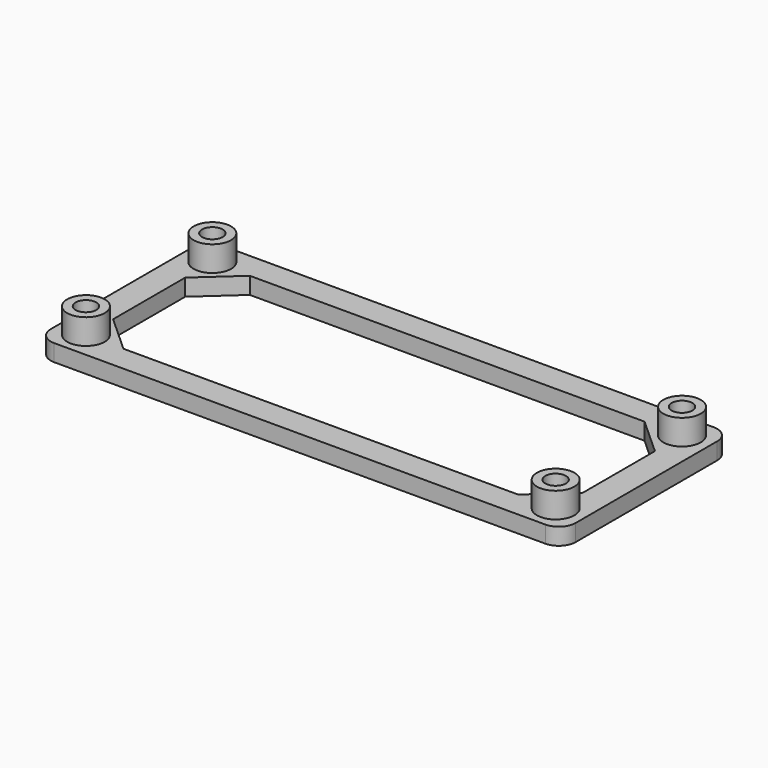
from build123d import *

# Parameters (mm, degrees)
F0_W     = 62.3
F0_H     = 25
F0_R     = 2.225
F0_R_2   = 1.225
F1_DEPTH = 2
F2_DEPTH = 5
F3_R     = 2


with BuildPart() as f1:
    # F0 (on Top) → F1 (new body)
    with BuildSketch(Plane.XY):
        Rectangle(F0_W, F0_H)
        with Locations((-27.875, -9.375)):
            Circle(F0_R, mode=Mode.SUBTRACT)
        with Locations((27.875, -9.375)):
            Circle(F0_R, mode=Mode.SUBTRACT)
        with Locations((-27.875, 9.375)):
            Circle(F0_R, mode=Mode.SUBTRACT)
        Polygon((-27.875, 5.350242297), (-23.4251319759, 9.375), (23.4251319759, 9.375), (27.875, 5.350242297), (27.875, -5.350242297), (23.4251319759, -9.375), (-23.4251319759, -9.375), (-27.875, -5.350242297), align=None, mode=Mode.SUBTRACT)
        with Locations((27.875, 9.375)):
            Circle(F0_R, mode=Mode.SUBTRACT)
        with Locations((-27.875, 9.375)):
            Circle(F0_R)
        with Locations((-27.875, 9.375)):
            Circle(F0_R_2, mode=Mode.SUBTRACT)
        with Locations((-27.875, -9.375)):
            Circle(F0_R)
        with Locations((-27.875, -9.375)):
            Circle(F0_R_2, mode=Mode.SUBTRACT)
        with Locations((27.875, 9.375)):
            Circle(F0_R)
        with Locations((27.875, 9.375)):
            Circle(F0_R_2, mode=Mode.SUBTRACT)
        with Locations((27.875, -9.375)):
            Circle(F0_R)
        with Locations((27.875, -9.375)):
            Circle(F0_R_2, mode=Mode.SUBTRACT)
    extrude(amount=F1_DEPTH)

    # F3
    f3_edges = [f1.edges().sort_by_distance(p)[0] for p in [
        (-31.15, -12.5, 1),
        (-31.15, 12.5, 1),
        (31.15, 12.5, 1),
        (31.15, -12.5, 1),
    ]]
    fillet(f3_edges, radius=F3_R)


with BuildPart() as f2:
    # F0 (on Top) → F2 (new body)
    with BuildSketch(Plane.XY):
        with Locations((-27.875, 9.375)):
            Circle(F0_R)
        with Locations((-27.875, 9.375)):
            Circle(F0_R_2, mode=Mode.SUBTRACT)
    extrude(amount=F2_DEPTH)


with BuildPart() as f2b:
    # F0 (on Top) → F2, piece 2 (new body)
    with BuildSketch(Plane.XY):
        with Locations((-27.875, -9.375)):
            Circle(F0_R)
        with Locations((-27.875, -9.375)):
            Circle(F0_R_2, mode=Mode.SUBTRACT)
    extrude(amount=F2_DEPTH)


with BuildPart() as f2c:
    # F0 (on Top) → F2, piece 3 (new body)
    with BuildSketch(Plane.XY):
        with Locations((27.875, 9.375)):
            Circle(F0_R)
        with Locations((27.875, 9.375)):
            Circle(F0_R_2, mode=Mode.SUBTRACT)
    extrude(amount=F2_DEPTH)


with BuildPart() as f2d:
    # F0 (on Top) → F2, piece 4 (new body)
    with BuildSketch(Plane.XY):
        with Locations((27.875, -9.375)):
            Circle(F0_R)
        with Locations((27.875, -9.375)):
            Circle(F0_R_2, mode=Mode.SUBTRACT)
    extrude(amount=F2_DEPTH)


solid = Compound([f1.part, f2.part, f2b.part, f2c.part, f2d.part])
